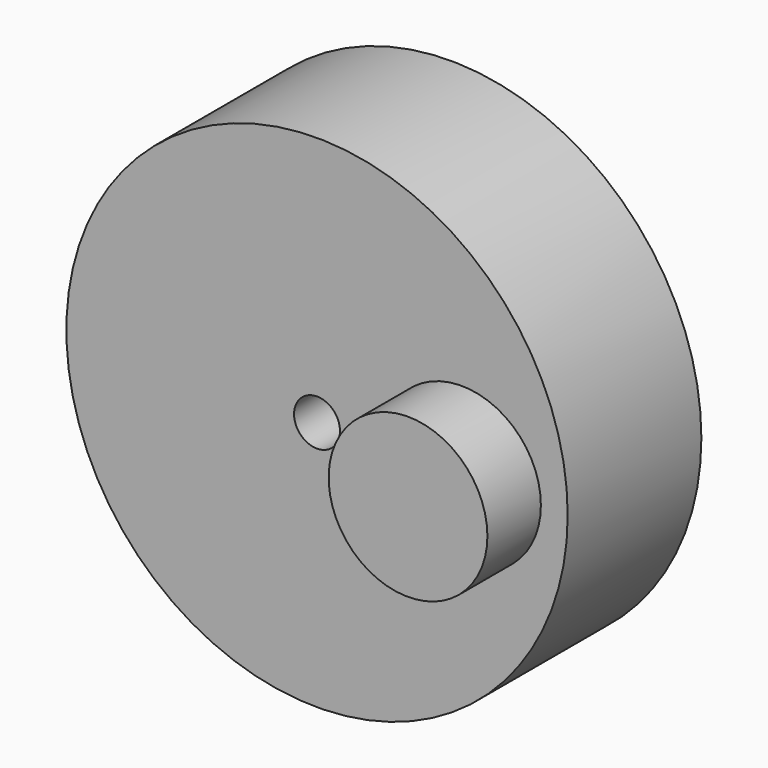
from build123d import *

# Parameters (mm, degrees)
F0_R     = 30
F0_R_2   = 9.5
F1_DEPTH = 20
F2_DEPTH = 8
F3_D     = 5.5


with BuildPart() as f1:
    # F0 (on Front) → F1 (new body)
    with BuildSketch(Plane.XZ):
        Circle(F0_R)
        with Locations((17.2907616943, 0)):
            Circle(F0_R_2, mode=Mode.SUBTRACT)
        with Locations((17.2907616943, 0)):
            Circle(F0_R_2)
    extrude(amount=-F1_DEPTH)

    # F0 (on Front) → F2 (join)
    with BuildSketch(Plane.XZ):
        with Locations((17.2907616943, 0)):
            Circle(F0_R_2)
    extrude(amount=F2_DEPTH)

    # F3 (through all)
    with Locations(Plane.XZ):
        with Locations((0, 0)):
            Hole(F3_D / 2)


solid = f1.part
